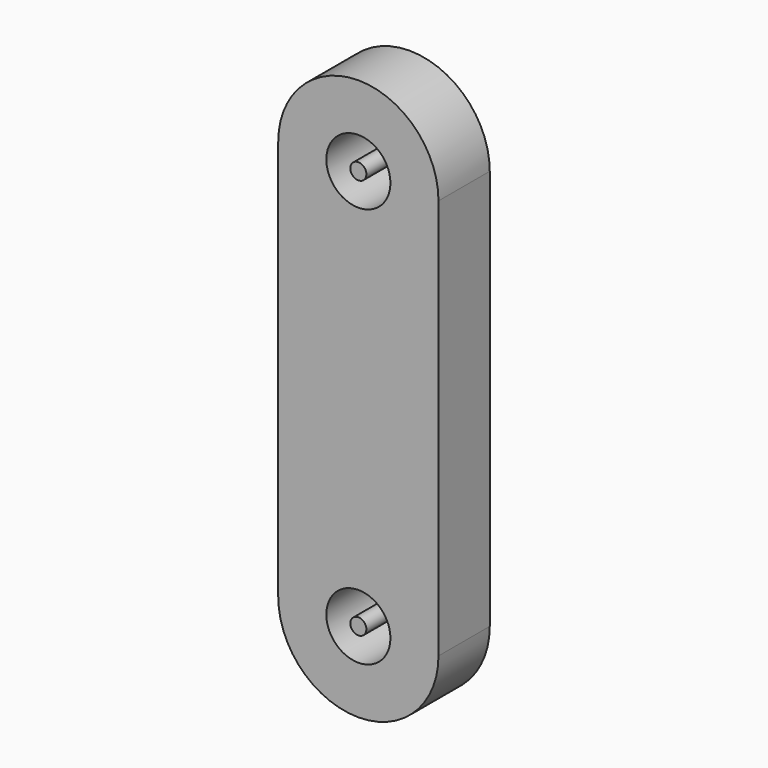
from build123d import *

# Parameters (mm, degrees)
F0_R     = 4
F1_DEPTH = 8
F2_R     = 1
F3_DEPTH = 8


with BuildPart() as f1:
    # F0 (on Front) → F1 (new body)
    with BuildSketch(Plane.XZ):
        with BuildLine():
            Line((-10, 50), (-10, 0))
            ThreePointArc((-10, 0), (0, -10), (10, 0))
            Line((10, 0), (10, 50))
            ThreePointArc((10, 50), (0, 60), (-10, 50))
        make_face()
        Circle(F0_R, mode=Mode.SUBTRACT)
        with Locations((0, 50)):
            Circle(F0_R, mode=Mode.SUBTRACT)
    extrude(amount=F1_DEPTH)


with BuildPart() as f3:
    # F2 (on Front) → F3 (new body)
    with BuildSketch(Plane.XZ):
        Circle(F2_R)
        with Locations((0, 50)):
            Circle(F2_R)
    extrude(amount=F3_DEPTH)


solid = Compound([f1.part, f3.part])
